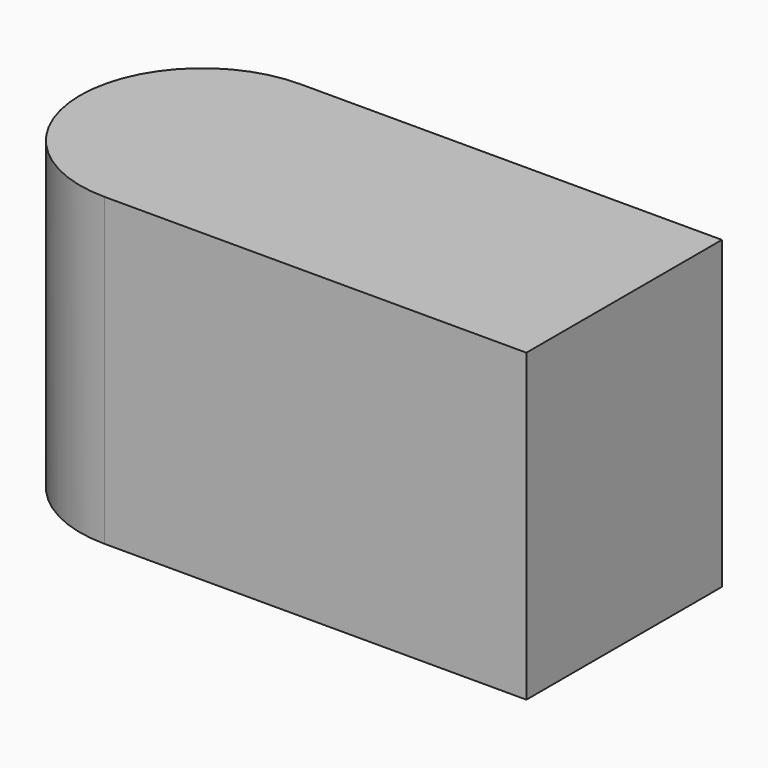
from build123d import *

# Parameters (mm, degrees)
F1_DEPTH = 25


with BuildPart() as f1:
    # F0 (on Top) → F1 (new body)
    with BuildSketch(Plane.XY):
        with BuildLine():
            Line((-17.2584246076, -10), (17.2584246076, -10))
            Line((17.2584246076, -10), (17.2584246076, 10))
            Line((17.2584246076, 10), (-17.2584246076, 10))
            ThreePointArc((-17.2584246076, 10), (-10.1873567958, 7.0710678119), (-7.2584246076, 0))
            ThreePointArc((-7.2584246076, 0), (-10.1873567958, -7.0710678119), (-17.2584246076, -10))
        make_face()
        with BuildLine():
            Line((-17.2584246076, 5), (-17.2584246076, -5))
            ThreePointArc((-17.2584246076, -5), (-13.7228907017, -3.5355339059), (-12.2584246076, 0))
            ThreePointArc((-12.2584246076, 0), (-13.7228907017, 3.5355339059), (-17.2584246076, 5))
        make_face()
        with BuildLine():
            ThreePointArc((-17.2584246076, 5), (-22.2584246076, 0), (-17.2584246076, -5))
            Line((-17.2584246076, -5), (-17.2584246076, 5))
        make_face()
        with BuildLine():
            ThreePointArc((-17.2584246076, 10), (-27.2584246076, 0), (-17.2584246076, -10))
            Line((-17.2584246076, -10), (-17.2584246076, -5))
            ThreePointArc((-17.2584246076, -5), (-22.2584246076, 0), (-17.2584246076, 5))
            Line((-17.2584246076, 5), (-17.2584246076, 10))
        make_face()
        with BuildLine():
            Line((-17.2584246076, -5), (-17.2584246076, -10))
            ThreePointArc((-17.2584246076, -10), (-10.1873567958, -7.0710678119), (-7.2584246076, 0))
            ThreePointArc((-7.2584246076, 0), (-10.1873567958, 7.0710678119), (-17.2584246076, 10))
            Line((-17.2584246076, 10), (-17.2584246076, 5))
            ThreePointArc((-17.2584246076, 5), (-13.7228907017, 3.5355339059), (-12.2584246076, 0))
            ThreePointArc((-12.2584246076, 0), (-13.7228907017, -3.5355339059), (-17.2584246076, -5))
        make_face()
    extrude(amount=F1_DEPTH)


solid = f1.part
